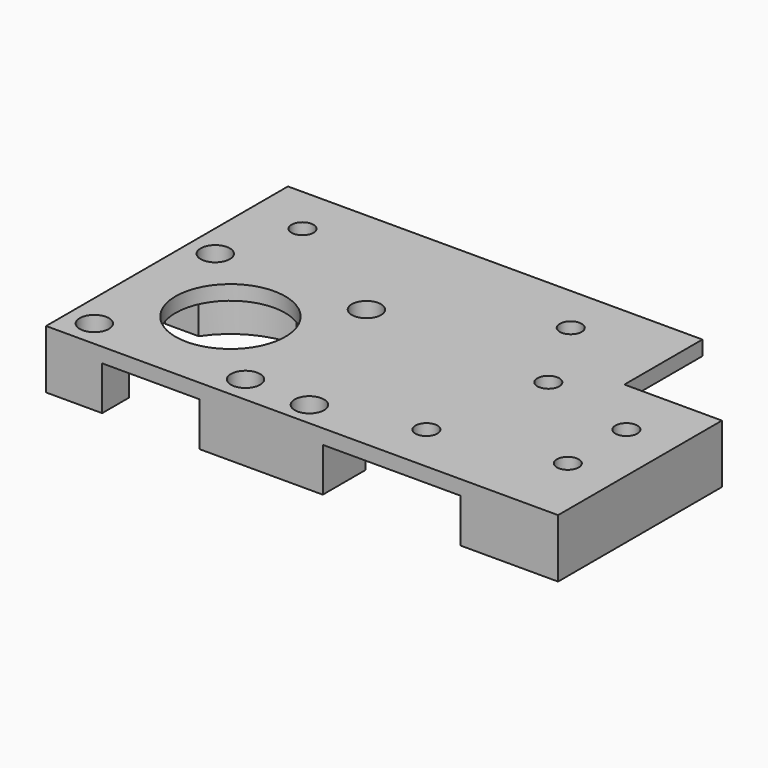
from build123d import *

# Parameters (mm, degrees)
SKETCH_R        = 2.25
SKETCH_R_2      = 11.25
SKETCH_R_3      = 1.75
PAD_DEPTH       = 12
POCKET_DEPTH    = 9
SKETCH002_R     = 4
PAD001_DEPTH    = 9
SKETCH003_R     = 3
POCKET001_DEPTH = 8
SKETCH004_R     = 1.75
POCKET002_DEPTH = 10


with BuildPart() as pocket_belt_path:
    # Sketch → Pad (new body)
    with BuildSketch(Plane.XY):
        Polygon((0, 0), (105, 0), (105, 62), (20, 62), (20, 42), (0, 42), align=None)
        with Locations((35, 10)):
            Circle(SKETCH_R, mode=Mode.SUBTRACT)
        with Locations((30, 35)):
            Circle(SKETCH_R, mode=Mode.SUBTRACT)
        with Locations((84, 21)):
            Circle(SKETCH_R_2, mode=Mode.SUBTRACT)
        with Locations((68.5, 36.5)):
            Circle(SKETCH_R_3, mode=Mode.SUBTRACT)
        with Locations((99.5, 36.5)):
            Circle(SKETCH_R_3, mode=Mode.SUBTRACT)
        with Locations((68.5, 5.5)):
            Circle(SKETCH_R_3, mode=Mode.SUBTRACT)
        with Locations((99.5, 5.5)):
            Circle(SKETCH_R_3, mode=Mode.SUBTRACT)
        with Locations((10, 30)):
            Circle(SKETCH_R, mode=Mode.SUBTRACT)
        with Locations((10, 15)):
            Circle(SKETCH_R, mode=Mode.SUBTRACT)
        with Locations((39, 52)):
            Circle(SKETCH_R, mode=Mode.SUBTRACT)
        with Locations((94, 52)):
            Circle(SKETCH_R, mode=Mode.SUBTRACT)
        with Locations((55, 5)):
            Circle(SKETCH_R_3, mode=Mode.SUBTRACT)
    extrude(amount=PAD_DEPTH)

    # Sketch001 → Pocket (cut)
    with BuildSketch(Plane.XY.offset(12)):
        with BuildLine():
            ThreePointArc((38.485281, 42), (36.015595, 44.209377), (32.999996, 45.583006))
            Line((32.999996, 67), (32.999996, 45.583006))
            Line((20, 67), (32.999996, 67))
            Line((20, -1), (20, 67))
            Line((20, -1), (48.252269, -1))
            Line((48.252269, 11), (48.252269, -1))
            Line((48.252269, 11), (70.252269, 11))
            ThreePointArc((70.252269, 11), (71.759618, 9.202833), (73.499996, 7.630258))
            Line((73.499996, 7.630258), (73.499996, -1))
            Line((73.499996, -1), (93.499996, -1))
            Line((93.499996, -1), (93.499996, 6.902128))
            ThreePointArc((93.499996, 6.902128), (95.574295, 8.548671), (97.367695, 10.497399))
            Line((105.499996, 10.497399), (97.367695, 10.497399))
            Line((105.499996, 30.497399), (105.499996, 10.497399))
            Line((98.099621, 30.497399), (105.499996, 30.497399))
            ThreePointArc((98.099621, 30.497399), (91.98574, 36.007594), (83.999996, 38))
            Line((83.999996, 38), (83.999996, 67))
            Line((83.999996, 67), (43.999996, 67))
            Line((43.999996, 67), (43.999996, 42))
            Line((38.485281, 42), (43.999996, 42))
        make_face()
    extrude(amount=-POCKET_DEPTH, mode=Mode.SUBTRACT)


with BuildPart() as pocket002:
    # Part__Mirroring: instance of Pocket belt path
    add(pocket_belt_path.part.mirror(Plane(origin=(0, 0, 0), x_dir=(0, 1, 0), z_dir=(0, 0, 1))))

    # Sketch002 → Pad001 (new body)
    with BuildSketch(Plane(origin=(0, 0, -3), x_dir=(1, 0, 0), z_dir=(0, 0, -1))):
        with Locations((68.5, -36.5)):
            Circle(SKETCH002_R)
    extrude(amount=PAD001_DEPTH)

    # Sketch003 → Pocket001 (cut)
    with BuildSketch(Plane.XY):
        with Locations((55, 5)):
            Circle(SKETCH003_R)
        with Locations((68.5, 36.5)):
            Circle(SKETCH003_R)
        with Locations((68.5, 5.5)):
            Circle(SKETCH003_R)
        with Locations((99.5, 5.5)):
            Circle(SKETCH003_R)
        with Locations((99.5, 36.5)):
            Circle(SKETCH003_R)
    extrude(amount=-POCKET001_DEPTH, mode=Mode.SUBTRACT)

    # Sketch004 → Pocket002 (cut)
    with BuildSketch(Plane.XY.offset(-8)):
        with Locations((68.5, 36.5)):
            Circle(SKETCH004_R)
    extrude(amount=-POCKET002_DEPTH, mode=Mode.SUBTRACT)


with BuildPart() as part_mirroring001:
    # Part__Mirroring001: instance of Pocket002
    add(pocket002.part.mirror(Plane(origin=(0, 0, 0), x_dir=(0, -1, 0), z_dir=(1, 0, 0))))


solid = part_mirroring001.part
